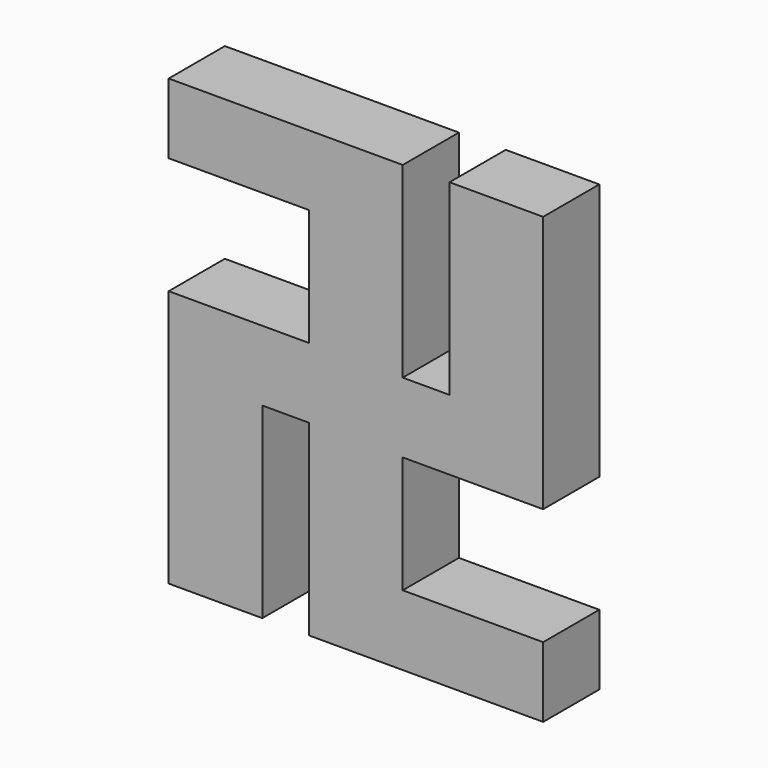
from build123d import *

# Parameters (mm, degrees)
F0_W     = 25.4
F0_H     = 50.8
F1_DEPTH = 19.05


with BuildPart() as f1:
    # F0 (on Front) → F1 (new body)
    with BuildSketch(Plane.XZ):
        Polygon((25.4, -9.525), (50.8, -9.525), (50.8, 9.525), (25.4, 9.525), (12.7, 9.525), (0, 9.525), (0, 0), (0, -9.525), (12.7, -9.525), align=None)
        with Locations((38.1, 34.925)):
            Rectangle(F0_W, F0_H)
        Polygon((12.7, -41.275), (12.7, -9.525), (0, -9.525), (-12.7, -9.525), (-12.7, -60.325), (50.8, -60.325), (50.8, -41.275), align=None)
        Polygon((-12.7, -9.525), (0, -9.525), (0, 0), (0, 9.525), (-12.7, 9.525), (-50.8, 9.525), (-50.8, -9.525), (-25.4, -9.525), align=None)
        Polygon((0, 9.525), (12.7, 9.525), (12.7, 60.325), (-12.7, 60.325), (-50.8, 60.325), (-50.8, 41.275), (-12.7, 41.275), (-12.7, 9.525), align=None)
        with Locations((-38.1, -34.925)):
            Rectangle(F0_W, F0_H)
    extrude(amount=F1_DEPTH)


solid = f1.part
